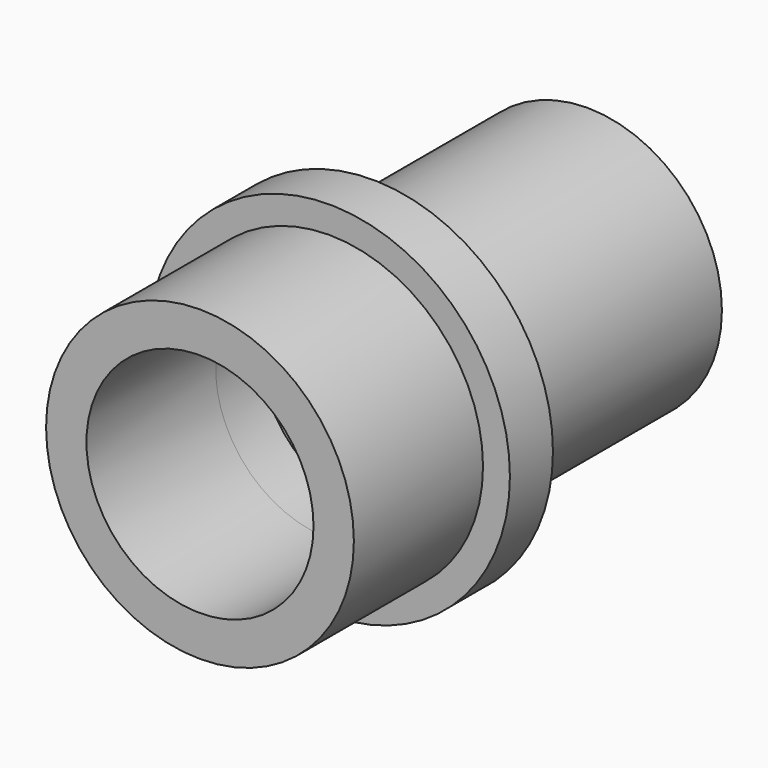
from build123d import *

# Parameters (mm, degrees)
F0_R     = 18.161
F0_R_2   = 13.3985
F1_DEPTH = 19.05
F2_R     = 21.336
F2_R_2   = 13.3985
F3_DEPTH = 6.35
F4_R     = 15.875
F4_R_2   = 11.90625
F5_DEPTH = 12.7
F6_R     = 15.875
F7_DEPTH = 19.05


with BuildPart() as f1:
    # F0 (on Front) → F1 (new body)
    with BuildSketch(Plane.XZ):
        Circle(F0_R)
        Circle(F0_R_2, mode=Mode.SUBTRACT)
    extrude(amount=F1_DEPTH)

    # F2 (on Front) → F3 (join)
    with BuildSketch(Plane.XZ):
        Circle(F2_R)
        Circle(F2_R_2, mode=Mode.SUBTRACT)
    extrude(amount=-F3_DEPTH)

    # F4 (on face) → F5 (join)
    with BuildSketch(Plane(origin=(0, 6.35, 0), x_dir=(-1, 0, 0), z_dir=(0, 1, 0))):
        Circle(F4_R)
        Circle(F4_R_2, mode=Mode.SUBTRACT)
    extrude(amount=F5_DEPTH)

    # F6 (on face) → F7 (join)
    with BuildSketch(Plane(origin=(0, 19.05, 0), x_dir=(-1, 0, 0), z_dir=(0, 1, 0))):
        Circle(F6_R)
        with BuildLine():
            ThreePointArc((-4.7625, -6.35), (-6.874077, -3.96875), (-7.880511, -0.949446))
            Line((-7.880511, -0.949446), (-11.525237, 2.987925))
            ThreePointArc((-11.525237, 2.987925), (-10.311115, 5.953125), (-8.350237, 8.487186))
            Line((-8.350237, 8.487186), (-3.118011, 7.299446))
            ThreePointArc((-3.118011, 7.299446), (0, 7.9375), (3.118011, 7.299446))
            Line((3.118011, 7.299446), (8.350237, 8.487186))
            ThreePointArc((8.350237, 8.487186), (10.311115, 5.953125), (11.525237, 2.987925))
            Line((11.525237, 2.987925), (7.880511, -0.949446))
            ThreePointArc((7.880511, -0.949446), (6.874077, -3.96875), (4.7625, -6.35))
            Line((4.7625, -6.35), (3.175, -11.475111))
            ThreePointArc((3.175, -11.475111), (0, -11.90625), (-3.175, -11.475111))
            Line((-3.175, -11.475111), (-4.7625, -6.35))
        make_face(mode=Mode.SUBTRACT)
    extrude(amount=F7_DEPTH)


solid = f1.part
